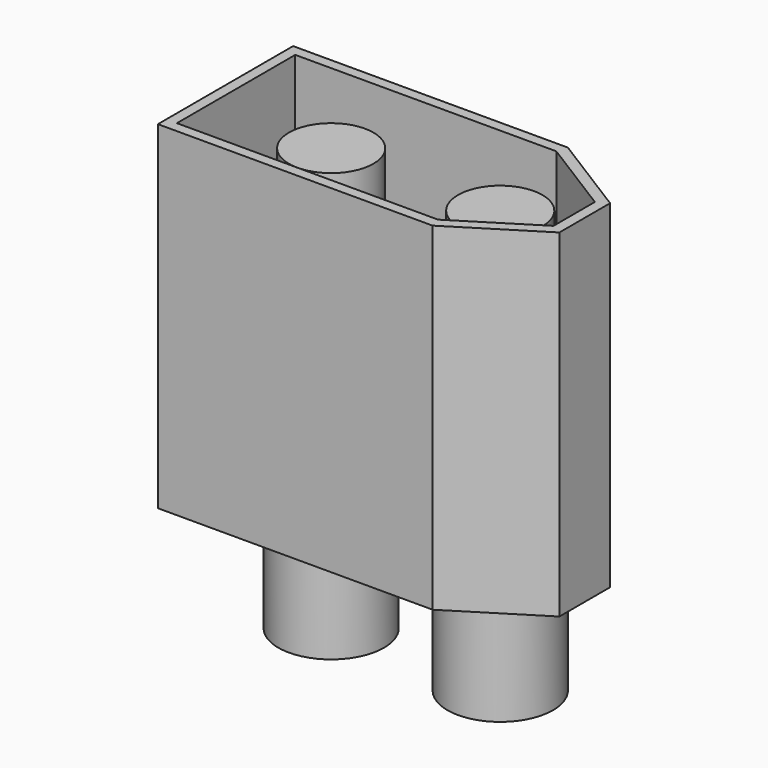
from build123d import *

# Parameters (mm, degrees)
F1_DEPTH = 6
F3_DEPTH = 10
F4_R     = 2.5
F5_DEPTH = 5
F6_R     = 2
F7_DEPTH = 5
F8_R     = 2
F9_DEPTH = 9


with BuildPart() as f1:
    # F0 (on Top) → F1 (new body)
    with BuildSketch(Plane.XY):
        Polygon((-13, 0.832660675), (-13, -7.167339325), (0, -7.167339325), (4, -4.667339325), (4, -1.667339325), (0, 0.832660675), align=None)
    extrude(amount=F1_DEPTH)

    # F2 (on face) → F3 (join)
    with BuildSketch(Plane.XY.offset(6)):
        Polygon((0, 0.832660675), (-13, 0.832660675), (-13, -7.167339325), (0, -7.167339325), (4, -4.667339325), (4, -1.667339325), align=None)
        Polygon((-12.5, 0.332660675), (-0.1433981132, 0.332660675), (3.5, -1.9444631457), (3.5, -4.3902155042), (-0.1433981132, -6.667339325), (-12.5, -6.667339325), align=None, mode=Mode.SUBTRACT)
    extrude(amount=F3_DEPTH)

    # F4 (on face) → F5 (join)
    with BuildSketch(Plane(origin=(0, 0, 0), x_dir=(1, 0, 0), z_dir=(0, 0, -1))):
        with Locations((0, 3.167339325)):
            Circle(F4_R)
        with Locations((-8, 3.167339325)):
            Circle(F4_R)
    extrude(amount=F5_DEPTH)

    # F6 (on face) → F7 (cut)
    with BuildSketch(Plane(origin=(0, 0, -5), x_dir=(1, 0, 0), z_dir=(0, 0, -1))):
        with Locations((-8, 3.167339325)):
            Circle(F6_R)
        with Locations((0, 3.167339325)):
            Circle(F6_R)
    extrude(amount=-F7_DEPTH, mode=Mode.SUBTRACT)

    # F8 (on face) → F9 (join)
    with BuildSketch(Plane.XY.offset(6)):
        with Locations((-8, -3.167339325)):
            Circle(F8_R)
        with Locations((0, -3.167339325)):
            Circle(F8_R)
    extrude(amount=F9_DEPTH)


solid = f1.part
